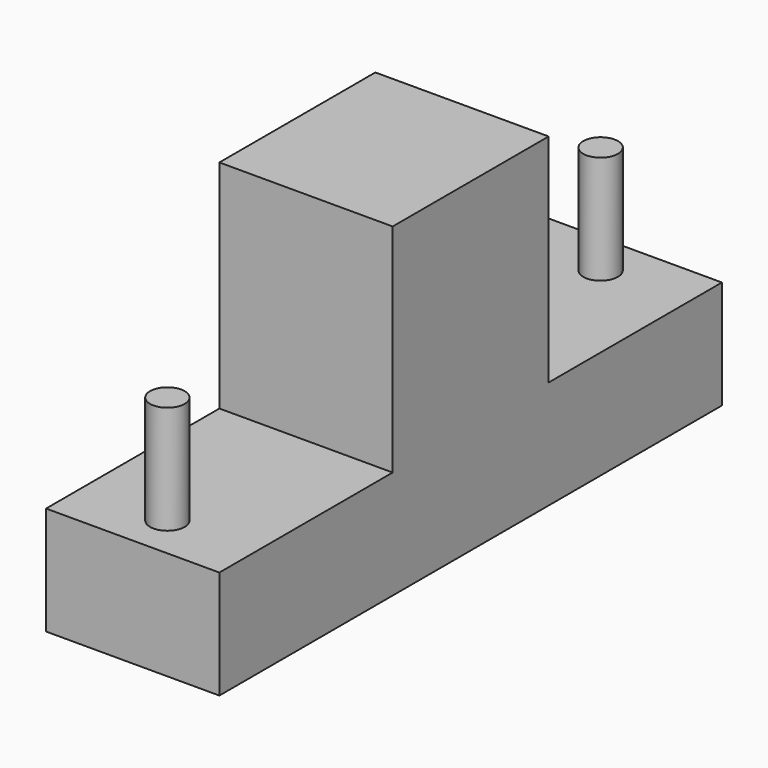
from build123d import *

# Parameters (mm, degrees)
F0_W     = 40
F0_H     = 145
F1_DEPTH = 75
F2_W     = 40
F2_H     = 50
F2_R     = 4
F3_DEPTH = 50
F4_R     = 4.542439
F4_R_2   = 4.801552
F5_DEPTH = 25


with BuildPart() as f1:
    # F0 (on Top) → F1 (new body)
    with BuildSketch(Plane.XY):
        Rectangle(F0_W, F0_H)
    extrude(amount=F1_DEPTH)

    # F2 (on face) → F3 (cut)
    with BuildSketch(Plane.XY.offset(75)):
        with Locations((0, -47.5)):
            Rectangle(F2_W, F2_H)
        with Locations((0, -62.5)):
            Circle(F2_R, mode=Mode.SUBTRACT)
        with Locations((0, 47.5)):
            Rectangle(F2_W, F2_H)
        with Locations((0, 62.5)):
            Circle(F2_R, mode=Mode.SUBTRACT)
    extrude(amount=-F3_DEPTH, mode=Mode.SUBTRACT)

    # F4 (on face) → F5 (cut)
    with BuildSketch(Plane.XY.offset(75)):
        with Locations((0, 62.5)):
            Circle(F4_R)
        with Locations((0, -62.5)):
            Circle(F4_R_2)
    extrude(amount=-F5_DEPTH, mode=Mode.SUBTRACT)


solid = f1.part
